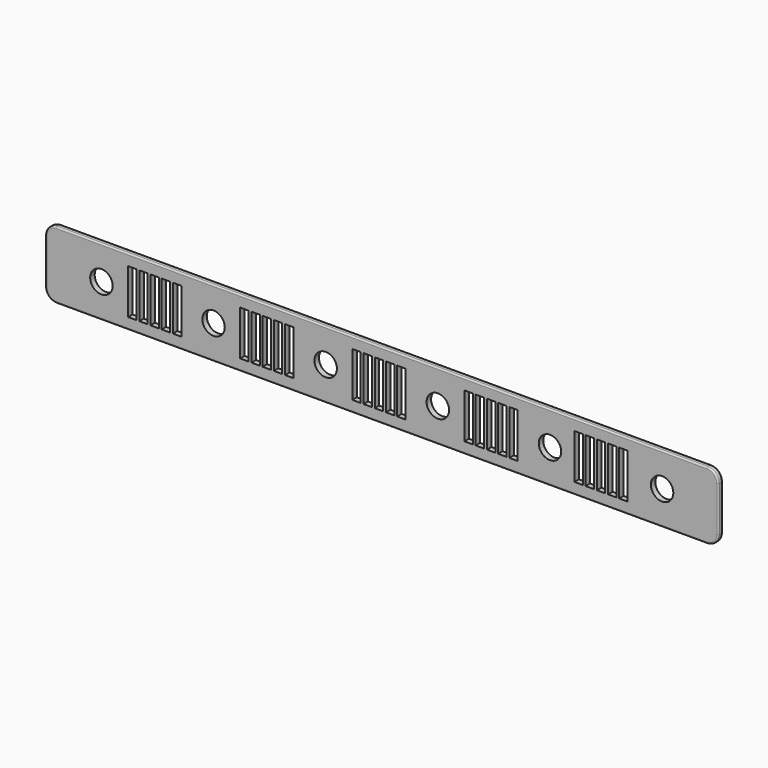
from build123d import *

# Parameters (mm, degrees)
F0_W     = 762
F0_H     = 76.2
F0_R     = 12.7
F1_DEPTH = 6.35
F2_W     = 9.525
F2_H     = 50.8
F3_DEPTH = 6.351
F4_R     = 12.7
F5_R     = 1.6002


with BuildPart() as f1:
    # F0 (on Front) → F1 (new body)
    with BuildSketch(Plane.XZ):
        with Locations((381, 38.1)):
            Rectangle(F0_W, F0_H)
        with Locations((63.5, 38.1)):
            Circle(F0_R, mode=Mode.SUBTRACT)
        with Locations((190.5, 38.1)):
            Circle(F0_R, mode=Mode.SUBTRACT)
        with Locations((317.5, 38.1)):
            Circle(F0_R, mode=Mode.SUBTRACT)
        with Locations((444.5, 38.1)):
            Circle(F0_R, mode=Mode.SUBTRACT)
        with Locations((571.5, 38.1)):
            Circle(F0_R, mode=Mode.SUBTRACT)
        with Locations((698.5, 38.1)):
            Circle(F0_R, mode=Mode.SUBTRACT)
    extrude(amount=F1_DEPTH)

    # F2 (on face) → F3 (cut, through all)
    with BuildSketch(Plane.XZ.offset(6.35)):
        with Locations((149.2377, 38.1)):
            Rectangle(F2_W, F2_H)
        with Locations((136.5377, 38.1)):
            Rectangle(F2_W, F2_H)
        with Locations((123.8377, 38.1)):
            Rectangle(F2_W, F2_H)
        with Locations((111.1377, 38.1)):
            Rectangle(F2_W, F2_H)
        with Locations((98.4377, 38.1)):
            Rectangle(F2_W, F2_H)
        with Locations((225.4377, 38.1)):
            Rectangle(F2_W, F2_H)
        with Locations((238.1377, 38.1)):
            Rectangle(F2_W, F2_H)
        with Locations((250.8377, 38.1)):
            Rectangle(F2_W, F2_H)
        with Locations((263.5377, 38.1)):
            Rectangle(F2_W, F2_H)
        with Locations((276.2377, 38.1)):
            Rectangle(F2_W, F2_H)
        with Locations((352.4377, 38.1)):
            Rectangle(F2_W, F2_H)
        with Locations((365.1377, 38.1)):
            Rectangle(F2_W, F2_H)
        with Locations((377.8377, 38.1)):
            Rectangle(F2_W, F2_H)
        with Locations((390.5377, 38.1)):
            Rectangle(F2_W, F2_H)
        with Locations((403.2377, 38.1)):
            Rectangle(F2_W, F2_H)
        with Locations((479.4377, 38.1)):
            Rectangle(F2_W, F2_H)
        with Locations((492.1377, 38.1)):
            Rectangle(F2_W, F2_H)
        with Locations((504.8377, 38.1)):
            Rectangle(F2_W, F2_H)
        with Locations((517.5377, 38.1)):
            Rectangle(F2_W, F2_H)
        with Locations((530.2377, 38.1)):
            Rectangle(F2_W, F2_H)
        with Locations((603.8977, 38.1)):
            Rectangle(F2_W, F2_H)
        with Locations((616.5977, 38.1)):
            Rectangle(F2_W, F2_H)
        with Locations((629.2977, 38.1)):
            Rectangle(F2_W, F2_H)
        with Locations((654.6977, 38.1)):
            Rectangle(F2_W, F2_H)
        with Locations((641.9977, 38.1)):
            Rectangle(F2_W, F2_H)
    extrude(amount=-F3_DEPTH, mode=Mode.SUBTRACT)

    # F4
    f4_edges = [f1.edges().sort_by_distance(p)[0] for p in [
        (0, -3.175, 76.2),
        (0, -3.175, 0),
        (762, -3.175, 76.2),
        (762, -3.175, 0),
    ]]
    fillet(f4_edges, radius=F4_R)

    # F5
    f5_edges = [f1.edges().sort_by_distance(p)[0] for p in [
        (381, -6.35, 76.2),
        (381, 0, 76.2),
    ]]
    fillet(f5_edges, radius=F5_R)


solid = f1.part
